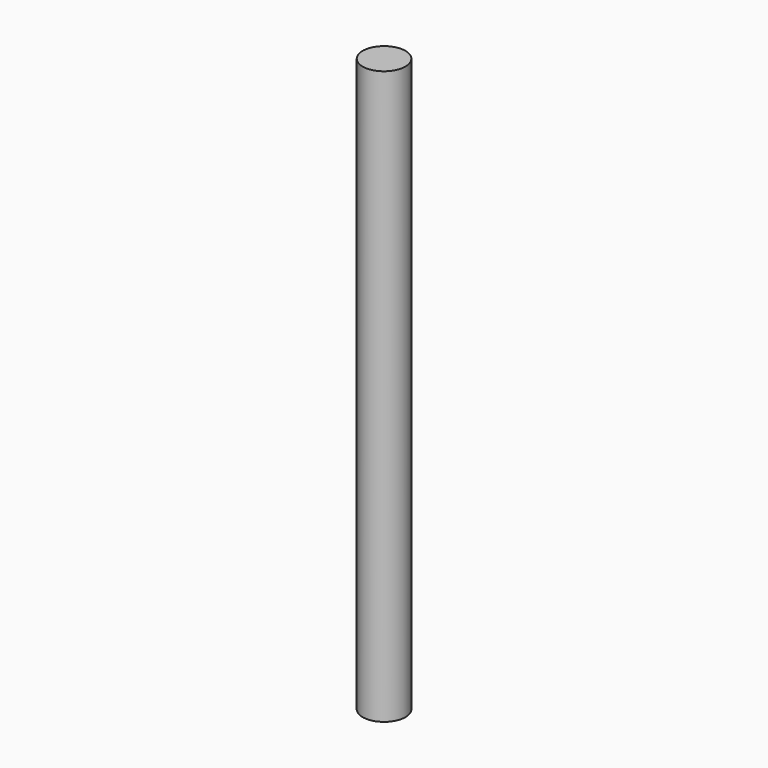
from build123d import *

# Parameters (mm, degrees)
SKETCH_R  = 6
PAD_DEPTH = 80.5


with BuildPart() as part:
    # Sketch → Pad (new body, symmetric)
    with BuildSketch(Plane.XY):
        Circle(SKETCH_R)
    extrude(amount=PAD_DEPTH, both=True)


solid = part.part
